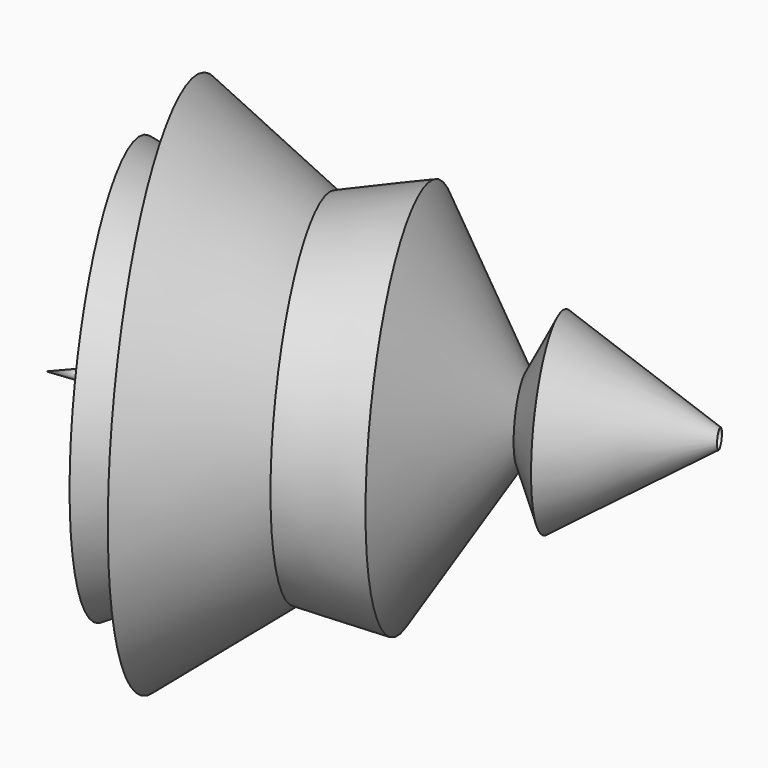
from build123d import *

# Parameters (mm, degrees)
F13_DEPTH = 177.8
F15_DEPTH = 25.4


with BuildPart() as f1:
    # F0 (on Front) → F1 (revolve)
    with BuildSketch(Plane.XZ):
        Polygon((0.6260557566, -7.5126765296), (-2.6294370182, 51.5870451927), (-55.7190142572, -50.0845089555), (-14.148873277, -31.5532386303), (-23.5693465055, -10.420828745), (10.3925345466, -53.0895777047), (32.9305641353, -22.2876053303), (13.6480275542, -17.2791555524), (30.6767579168, 3.5059156362), (61.0699389315, -21.394517933), (73.2485875487, 36.3112688065), (11.3942269236, 36.3112688065), align=None)
    revolve(axis=Axis((-29.1742256377, 0, 0.7512681186), (-0.4628644247, 0, -0.8864290859)))


with BuildPart() as f3:
    # F2 (on Right) → F3 (revolve)
    with BuildSketch(Plane.YZ):
        Polygon((-33.8688828051, -97.5663810968), (-33.8688828051, -70.471920073), (-87.0555192232, -44.2999191582), (-53.5261817276, -50.8531965315), (-90.6941741705, -16.1679573357), (-110.9379380941, -42.4902550876), (-80.2416056395, -77.6406899095), (-88.6875614524, -125.6358772516), (-55.2050061524, -125.6358772516), (-75.0705972314, -97.2048565745), (-62.6820400357, -85.3137969971), (-31.9602303207, -109.166815877), (-9.4147045165, -89.9706184864), align=None)
    revolve(axis=Axis((0, -71.9462838024, -125.6358772516), (0, 1, 0)))

    # F6 (on Front) → F7 (revolve)
    with BuildSketch(Plane.XZ):
        Polygon((-146.1211591959, 21.1035832763), (-225.5071252584, -112.5108003616), (-243.9559698105, -56.6052012146), (-262.4047994614, -125.9281486273), (-176.8692284822, -132.6368153095), (-264.6410167217, -144.3769931793), (-228.861451149, -198.6054331064), (-151.1526554823, -125.3690868616), align=None)
    revolve(axis=Axis((-190.0070533156, 0, -161.987259984), (-0.7277387205, 0, -0.6858544705)))


with BuildPart() as f5:
    # F4 (on Front) → F5 (revolve)
    with BuildSketch(Plane.XZ):
        Polygon((231.7287176847, -26.4161769301), (178.618401289, 69.1824033856), (114.8860156536, -17.4712818116), (162.9648208618, -124.2509782314), align=None)
    revolve(axis=Axis((205.1735594869, 0, 21.3831132278), (-0.4856428892, 0, 0.8741572994)))

    # F12 (on Top) → F13 (join)
    with BuildSketch(Plane.XY):
        Polygon((325.4389166832, 212.4954164028), (182.6805770397, 212.4954164028), (189.0344917774, 96.63554281), (325.4389166832, 96.63554281), align=None)
    extrude(amount=F13_DEPTH)

    # F14 (on face) → F15 (join)
    with BuildSketch(Plane(origin=(193.7513956672, 10.6255928839, 0), x_dir=(0.0547590904, -0.9984995954, 0), z_dir=(-0.9984995954, -0.0547590904, 0))):
        Polygon((-174.3424683809, 142.3184424639), (-198.0370730162, 108.6804270744), (-194.5939511061, 70.6304088235), (-170.4137915764, 66.9198334217), (-170.4137915764, 42.9836448964), (-130.2779763937, 32.2966761887), (-117.3099204898, 80.9993073344), (-146.0090428591, 86.2144604325), (-158.2970321178, 104.2593643069), (-132.832929492, 104.2593643069), (-113.3749186993, 127.1880269051), (-152.3354351521, 142.3184424639), align=None)
    extrude(amount=F15_DEPTH)


with BuildPart() as f9:
    # F8 (on Front) → F9 (revolve)
    with BuildSketch(Plane.XZ):
        Polygon((-31.3622541726, 32.3277041316), (19.8750700802, 31.7646674812), (165.1413440704, -22.8509511799), (152.7542918921, 73.9932283759), (88.5668694973, 28.3863712102), (25.5055483431, 82.4389457703), (-60.0776821375, 59.9170401692), (-161.9892865419, 13.1840920076), (-58.9515864849, 19.3776171654), (-55.3290835886, -40.8876368491), align=None)
    revolve(axis=Axis((-17.2860668972, 0, 71.1779929698), (-0.9670745294, 0, -0.2544933293)))


with BuildPart() as f11:
    # F10 (on Front) → F11 (revolve)
    with BuildSketch(Plane.XZ):
        Polygon((-444.1618025303, -155.2184522152), (67.3157125711, -21.0345350206), (27.849862352, 172.3481565714), (-11.6159934551, 22.3779063672), (-51.8711656332, 171.558842063), (-118.9631149173, 23.1672227383), (-152.90376544, 140.7754719257), (-187.6337081194, 0), (-243.6752319336, 76.8407806754), (-296.5594828129, -54.1858524084), (-334.4466984272, 68.9476132393), align=None)
    revolve(axis=Axis((-188.4230449796, 0, -88.1264936179), (-0.9672676121, 0, -0.2537584807)))


with BuildPart() as f17:
    # F16 (on Top) → F17 (revolve)
    with BuildSketch(Plane.XY):
        Polygon((859.8751425743, 229.6808958054), (947.8245973587, 298.9207208157), (559.1759085655, 332.2771191597), (559.1759085655, 191.7897313833), (200.6372958422, 411.7606580257), (38.7800742254, 284.3355849667), (-308.3602488041, 342.1483933926), (-34.4926267862, 190.0265514851), (-344.0194427967, 174.3078380823), (259.9612176418, 63.8280287385), (-264.2554044724, -329.4390141964), align=None)
    revolve(axis=Axis((297.809869051, -49.8790591955, 0), (0.8953636081, 0.4453358387, 0)))


solid = Compound([f1.part, f3.part, f5.part, f9.part, f11.part, f17.part])
